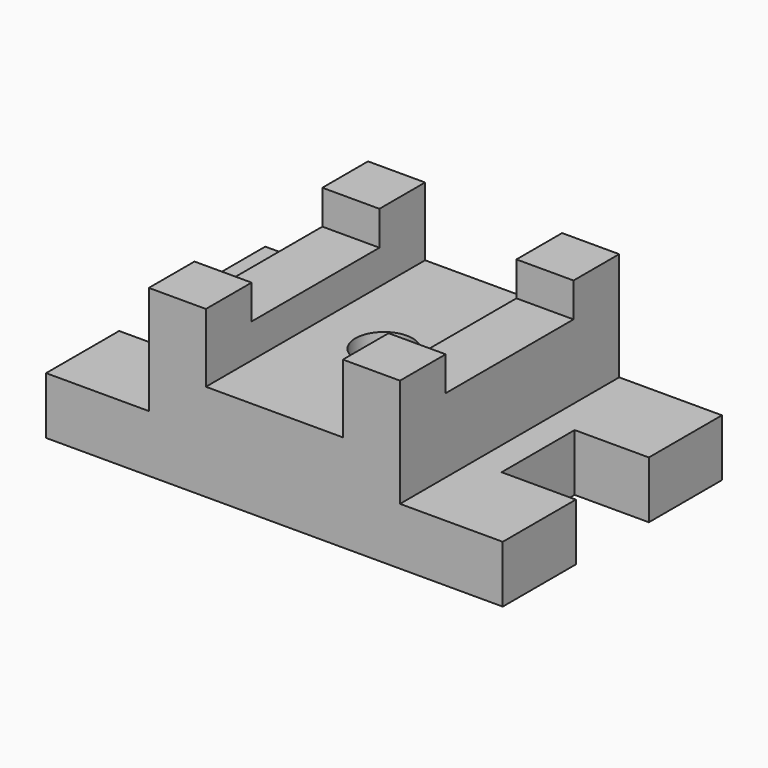
from build123d import *

# Parameters (mm, degrees)
F1_DEPTH = 31.75
F2_DEPTH = 31.75
F0_W     = 31.75
F0_H     = 31.75
F3_DEPTH = 92.075
F0_H_2   = 88.9
F4_DEPTH = 73.025
F0_R     = 15.875
F5_DEPTH = 53.975


with BuildPart() as f1:
    # F0 (on Top) → F1 (new body)
    with BuildSketch(Plane.XY):
        Polygon((-51.9184716105, 76.2), (-109.0684716105, 76.2), (-109.0684716105, 25.4), (-67.7934716105, 25.4), (-67.7934716105, -25.4), (-109.0684716105, -25.4), (-109.0684716105, -76.2), (-51.9184716105, -76.2), (-51.9184716105, -44.45), (-51.9184716105, 44.45), align=None)
    extrude(amount=F1_DEPTH)

    # F0 (on Top) → F3 (join)
    with BuildSketch(Plane.XY):
        with Locations((-36.0434716105, -60.325)):
            Rectangle(F0_W, F0_H)
        with Locations((-36.0434716105, 60.325)):
            Rectangle(F0_W, F0_H)
    extrude(amount=F3_DEPTH)

    # F0 (on Top) → F4 (join)
    with BuildSketch(Plane.XY):
        with Locations((-36.0434716105, 0)):
            Rectangle(F0_W, F0_H_2)
    extrude(amount=F4_DEPTH)



with BuildPart() as f2:
    # F0 (on Top) → F2 (new body)
    with BuildSketch(Plane.XY):
        Polygon((144.9315283895, 76.2), (87.7815283895, 76.2), (87.7815283895, 44.45), (87.7815283895, -44.45), (87.7815283895, -76.2), (144.9315283895, -76.2), (144.9315283895, -25.4), (103.6565283895, -25.4), (103.6565283895, 25.4), (144.9315283895, 25.4), align=None)
    extrude(amount=F2_DEPTH)

    # F0 (on Top) → F3, piece 2 (join)
    with BuildSketch(Plane.XY):
        with Locations((71.9065283895, 60.325)):
            Rectangle(F0_W, F0_H)
        with Locations((71.9065283895, -60.325)):
            Rectangle(F0_W, F0_H)
    extrude(amount=F3_DEPTH)

    # F0 (on Top) → F4, piece 2 (join)
    with BuildSketch(Plane.XY):
        with Locations((71.9065283895, 0)):
            Rectangle(F0_W, F0_H_2)
    extrude(amount=F4_DEPTH)


with BuildPart() as f1_1:
    add(f1.part)

    add(f2.part)  # F5 merges F2
    # F0 (on Top) → F5 (join)
    with BuildSketch(Plane.XY):
        Polygon((56.0315283895, 76.2), (-20.1684716105, 76.2), (-20.1684716105, 44.45), (-20.1684716105, -44.45), (-20.1684716105, -76.2), (56.0315283895, -76.2), (56.0315283895, -44.45), (56.0315283895, 44.45), align=None)
        with Locations((17.9315283895, 0)):
            Circle(F0_R, mode=Mode.SUBTRACT)
    extrude(amount=F5_DEPTH)


solid = f1_1.part
